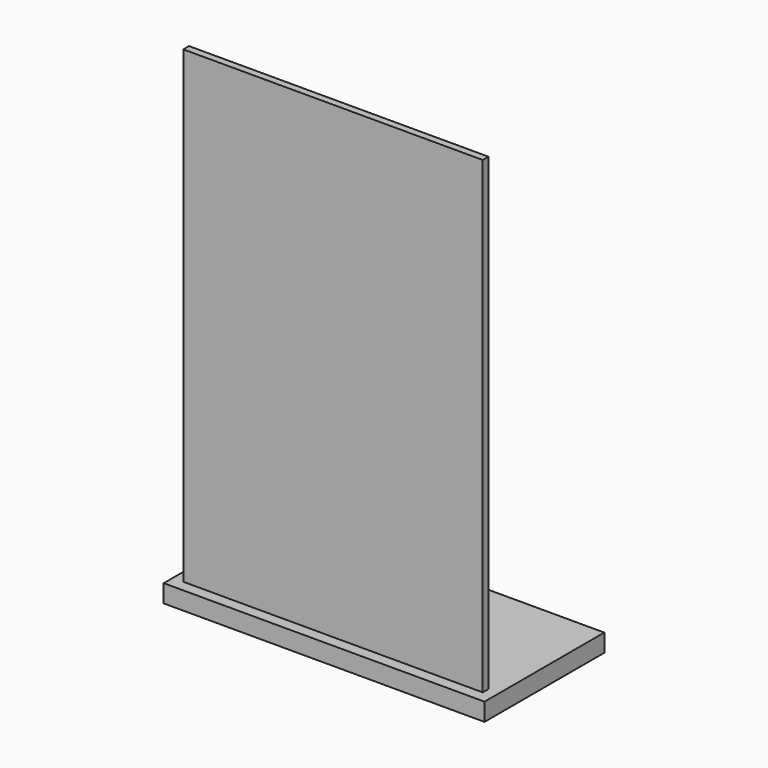
from build123d import *

# Parameters (mm, degrees)
SKETCH_W         = 90
SKETCH_H         = 42
PAD_DEPTH        = 5
SKETCH001_W      = 84
SKETCH001_H      = 2
PAD001_DEPTH     = 131.5
HOLE_D           = 3.2
HOLE_DEPTH       = 5
HOLE_CSINK_D     = 5
HOLE_CSINK_ANGLE = 90
HOLE_TIPS_R      = 1.6


with BuildPart() as part:
    # Sketch → Pad (new body)
    with BuildSketch(Plane.XY):
        with Locations((-45, 21)):
            Rectangle(SKETCH_W, SKETCH_H)
    extrude(amount=PAD_DEPTH)

    # Sketch001 (on Face6 of Pad) → Pad001 (join)
    with BuildSketch(Plane.XY.offset(5)):
        with Locations((-45.053107, 4.193032)):
            Rectangle(SKETCH001_W, SKETCH001_H)
    extrude(amount=PAD001_DEPTH)

    # Hole
    with Locations(Plane(origin=(0, 0, 0), x_dir=(1, 0, 0), z_dir=(0, 0, -1))):
        with Locations((-45.039894, -39.57151)):
            CounterSinkHole(HOLE_D / 2, HOLE_CSINK_D / 2, depth=HOLE_DEPTH, counter_sink_angle=HOLE_CSINK_ANGLE)

    # Hole tips → Hole tip 1 section 0
    with BuildSketch(Plane(origin=(0, 0, 5), x_dir=(1, 0, 0), z_dir=(0, 0, -1)), mode=Mode.PRIVATE) as hole_tip_1_s0:
        with Locations((-45.039894, -39.57151)):
            Circle(HOLE_TIPS_R)
    loft([hole_tip_1_s0.sketch, Vertex(-45.039894, 39.57151, 5.961377)], mode=Mode.SUBTRACT)


solid = part.part
